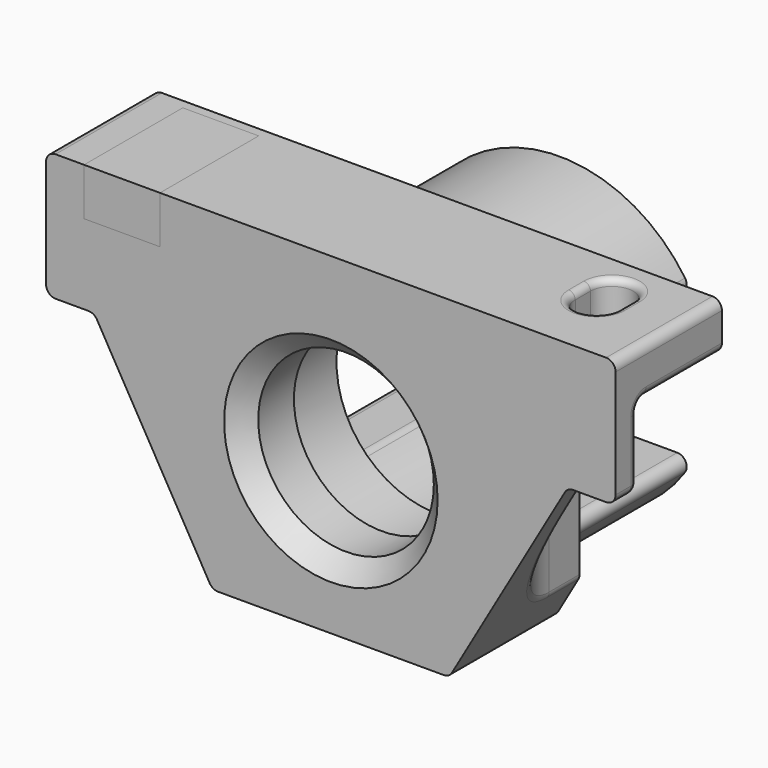
from build123d import *

# Parameters (mm, degrees)
SKETCH_R             = 10.6
PAD_DEPTH            = 14
PAD001_DEPTH         = 16.12
POCKET002_DEPTH      = 8.4
POCKET002_DEPTH_BACK = -100
POCKET003_DEPTH      = 5
SKETCH007_W          = 3.6
SKETCH007_H          = 24.1
POCKET_DEPTH         = 6
SKETCH003_W          = 3.6
SKETCH003_H          = 3.5
POCKET004_DEPTH      = 13.5
SKETCH008_R          = 10.817908
SKETCH008_R_2        = 9.25
PAD002_DEPTH         = 6.7
CHAMFER_SIZE         = 2
FILLET_R             = 1
FILLET001_R          = 0.7
BOX001_W             = 8
BOX001_H             = 13
BOX001_DEPTH         = 5


with BuildPart() as body:
    # Sketch → Pad (new body)
    with BuildSketch(Plane.XZ):
        Polygon((12.470766, -16), (24.941532, 5.6), (30, 5.6), (30, 19), (-30, 19), (-30, 5.6), (-24.941532, 5.6), (-12.470766, -16), align=None)
        Circle(SKETCH_R, mode=Mode.SUBTRACT)
    extrude(amount=PAD_DEPTH)

    # Sketch001 → Pad001 (join)
    with BuildSketch(Plane(origin=(0, 0, 0), x_dir=(1, 0, 0), z_dir=(0, 1, 0))):
        with BuildLine():
            ThreePointArc((-14.159714, -7.45), (0, -16), (14.159714, -7.45))
            Line((14.159714, -7.45), (7.680332, -7.45))
            ThreePointArc((-7.680332, -7.45), (0, -10.7), (7.680332, -7.45))
            Line((-7.680332, -7.45), (-14.159714, -7.45))
        make_face()
        with BuildLine():
            Line((-14.159714, 7.45), (-7.680332, 7.45))
            ThreePointArc((7.680332, 7.45), (0, 10.7), (-7.680332, 7.45))
            Line((7.680332, 7.45), (14.159714, 7.45))
            ThreePointArc((14.159714, 7.45), (0, 16), (-14.159714, 7.45))
        make_face()
    extrude(amount=PAD001_DEPTH)

    # Sketch004 → Pocket002 (cut, two sides)
    with BuildSketch(Plane(origin=(0, 0, 5.6), x_dir=(1, 0, 0), z_dir=(0, 0, -1))) as pocket002_sk:
        with BuildLine():
            Line((-30, 11), (-22, 11))
            ThreePointArc((-15, 4), (-17.050253, 8.949747), (-22, 11))
            Line((-15, 4), (-15, 0))
            Line((-15, 0), (-30, 0))
            Line((-30, 0), (-30, 11))
        make_face()
        with BuildLine():
            Line((30, 11), (22, 11))
            ThreePointArc((22, 11), (17.050253, 8.949747), (15, 4))
            Line((15, 4), (15, 0))
            Line((15, 0), (30, 0))
            Line((30, 0), (30, 11))
        make_face()
    extrude(amount=-POCKET002_DEPTH, mode=Mode.SUBTRACT)
    extrude(pocket002_sk.sketch, amount=-POCKET002_DEPTH_BACK, mode=Mode.SUBTRACT)

    # Sketch005 (on Face11 of Pocket002) → Pocket003 (cut)
    with BuildSketch(Plane(origin=(0, 0, 19), x_dir=(-1, 0, 0), z_dir=(0, 0, 1))):
        with BuildLine():
            ThreePointArc((-24.25, 4.5), (-22, 2.25), (-19.75, 4.5))
            Line((-19.75, 4.5), (-19.75, 6.5))
            ThreePointArc((-19.75, 6.5), (-22, 8.75), (-24.25, 6.5))
            Line((-24.25, 4.5), (-24.25, 6.5))
        make_face()
        with BuildLine():
            ThreePointArc((19.75, 4.5), (22, 2.25), (24.25, 4.5))
            Line((24.25, 4.5), (24.25, 6.5))
            ThreePointArc((24.25, 6.5), (22, 8.75), (19.75, 6.5))
            Line((19.75, 4.5), (19.75, 6.5))
        make_face()
    extrude(amount=-POCKET003_DEPTH, mode=Mode.SUBTRACT)

    # Sketch007 → Pocket (cut)
    with BuildSketch(Plane(origin=(0, 16.12, 0), x_dir=(1, 0, 0), z_dir=(0, 1, 0))):
        Rectangle(SKETCH007_W, SKETCH007_H)
    extrude(amount=-POCKET_DEPTH, mode=Mode.SUBTRACT)

    # Sketch003 → Pocket004 (cut, symmetric)
    with BuildSketch(Plane.XY):
        with Locations((0, 11.87)):
            Rectangle(SKETCH003_W, SKETCH003_H)
    extrude(amount=POCKET004_DEPTH, both=True, mode=Mode.SUBTRACT)

    # Sketch008 (on Face7 of Pocket004) → Pad002 (join)
    with BuildSketch(Plane.XZ.offset(14)):
        with Locations((0.026834, -0.039027)):
            Circle(SKETCH008_R)
        Circle(SKETCH008_R_2, mode=Mode.SUBTRACT)
    extrude(amount=-PAD002_DEPTH)

    # Chamfer
    chamfer_edges = [body.edges().sort_by_distance(p)[0] for p in [
        (-9.25, -14, 0),
    ]]
    chamfer(chamfer_edges, length=CHAMFER_SIZE)

    # Fillet
    fillet_edges = [body.edges().sort_by_distance(p)[0] for p in [
        (30, -7, 19),
        (30, -5.5, 14),
        (30, -12.5, 5.6),
        (24.941532, -12.5, 5.6),
        (12.470766, -7, -16),
        (-12.470766, -7, -16),
        (-24.941532, -12.5, 5.6),
        (-30, -12.5, 5.6),
        (-30, -5.5, 14),
        (-30, -7, 19),
        (-30, -11, 9.8),
        (-27.470766, -11, 5.6),
        (-15, -2, -11.619238),
        (-15, -2, 14),
        (15, -2, 14),
        (15, -2, -11.619238),
        (27.470766, -11, 5.6),
        (30, -11, 9.8),
        (14.159714, 8.06, 7.45),
        (-14.159714, 8.06, 7.45),
        (-14.159714, 8.06, -7.45),
        (14.159714, 8.06, -7.45),
        (-7.680332, 8.06, 7.45),
        (7.680332, 8.06, 7.45),
        (7.680332, 8.06, -7.45),
        (-7.680332, 8.06, -7.45),
    ]]
    fillet(fillet_edges, radius=FILLET_R)

    # Fillet001
    fillet001_edges = [body.edges().sort_by_distance(p)[0] for p in [
        (1.8, 14.87, 10.547512),
        (-1.8, 14.87, 10.547512),
        (1.8, 14.87, -10.547512),
        (-1.8, 14.87, -10.547512),
        (0, 10.12, -13.5),
        (1.8, 11.87, -13.5),
        (0, 13.62, -13.5),
        (-1.8, 11.87, -13.5),
        (0, 10.12, 13.5),
        (1.8, 11.87, 13.5),
        (0, 13.62, 13.5),
        (-1.8, 11.87, 13.5),
        (-19.75, -5.5, 19),
        (-19.75, -5.5, 14),
        (19.75, -5.5, 14),
        (19.75, -5.5, 19),
    ]]
    fillet(fillet001_edges, radius=FILLET001_R)


with BuildPart() as cube001:
    # Box001 → Box001 (new body)
    with BuildSketch(Plane(origin=(18, -14, 14), x_dir=(1, 0, 0), z_dir=(0, 0, 1))):
        with Locations((4, 6.5)):
            Rectangle(BOX001_W, BOX001_H)
    extrude(amount=BOX001_DEPTH)


with BuildPart() as obj1:
    # Part__Mirroring: instance of Cube001
    add(cube001.part.mirror(Plane(origin=(0, 0, 0), x_dir=(0, -1, 0), z_dir=(1, 0, 0))))


solid = Compound([body.part, obj1.part])
